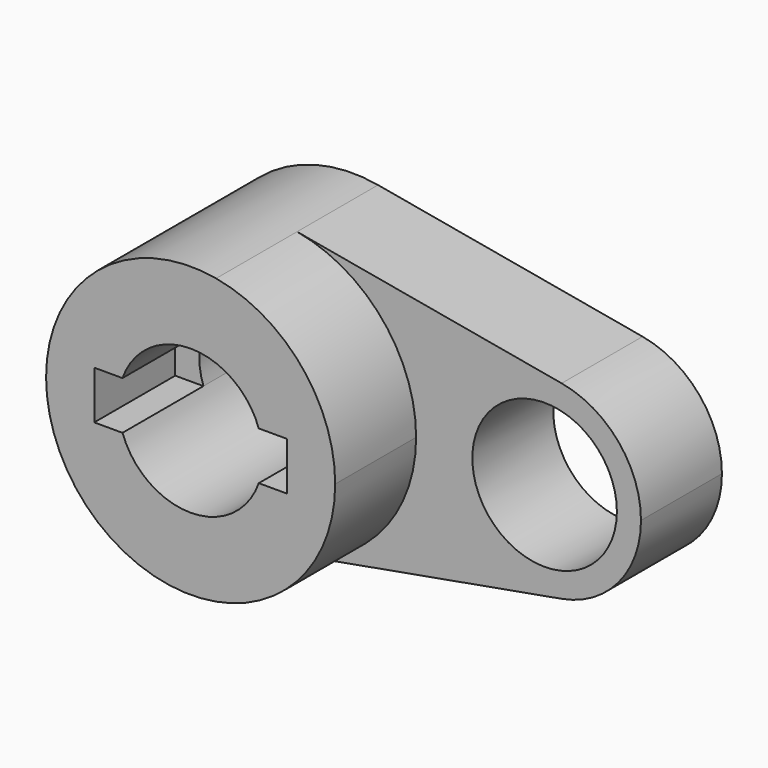
from build123d import *

# Parameters (mm, degrees)
F0_R     = 14.2875
F1_DEPTH = 20
F2_DEPTH = 40


with BuildPart() as f1:
    # F0 (on Front) → F1 (new body)
    with BuildSketch(Plane.XZ):
        with BuildLine():
            ThreePointArc((5.042647, 28.126541), (21.916025, 18.336262), (28.575, 0))
            ThreePointArc((28.575, 0), (21.916025, -18.336262), (5.042647, -28.126541))
            Line((5.042647, -28.126541), (57.336765, -18.751028))
            ThreePointArc((57.336765, -18.751028), (34.925, 0), (57.336765, 18.751028))
            Line((57.336765, 18.751028), (5.042647, 28.126541))
        make_face()
        with BuildLine():
            ThreePointArc((73.025, 0), (68.585683, 12.224174), (57.336765, 18.751028))
            ThreePointArc((57.336765, 18.751028), (34.925, 0), (57.336765, -18.751028))
            ThreePointArc((57.336765, -18.751028), (68.585683, -12.224174), (73.025, 0))
        make_face()
        with Locations((53.975, 0)):
            Circle(F0_R, mode=Mode.SUBTRACT)
        with BuildLine():
            ThreePointArc((5.042647, -28.126541), (21.916025, -18.336262), (28.575, 0))
            ThreePointArc((28.575, 0), (21.916025, 18.336262), (5.042647, 28.126541))
            ThreePointArc((5.042647, 28.126541), (-28.575, 0), (5.042647, -28.126541))
        make_face()
        with BuildLine():
            ThreePointArc((-13.470384, 4.7625), (0, 14.2875), (13.470384, 4.7625))
            Line((13.470384, 4.7625), (19.05, 4.7625))
            Line((19.05, 4.7625), (19.05, -4.7625))
            Line((19.05, -4.7625), (13.470384, -4.7625))
            ThreePointArc((13.470384, -4.7625), (0, -14.2875), (-13.470384, -4.7625))
            Line((-13.470384, -4.7625), (-19.05, -4.7625))
            Line((-19.05, -4.7625), (-19.05, 4.7625))
            Line((-19.05, 4.7625), (-13.470384, 4.7625))
        make_face(mode=Mode.SUBTRACT)
        with BuildLine():
            ThreePointArc((-13.470384, -4.7625), (-14.2875, 0), (-13.470384, 4.7625))
            Line((-13.470384, 4.7625), (-19.05, 4.7625))
            Line((-19.05, 4.7625), (-19.05, -4.7625))
            Line((-19.05, -4.7625), (-13.470384, -4.7625))
        make_face()
    extrude(amount=F1_DEPTH)

    # F0 (on Front) → F2 (join)
    with BuildSketch(Plane.XZ):
        with BuildLine():
            ThreePointArc((5.042647, -28.126541), (21.916025, -18.336262), (28.575, 0))
            ThreePointArc((28.575, 0), (21.916025, 18.336262), (5.042647, 28.126541))
            ThreePointArc((5.042647, 28.126541), (-28.575, 0), (5.042647, -28.126541))
        make_face()
        with BuildLine():
            ThreePointArc((-13.470384, 4.7625), (0, 14.2875), (13.470384, 4.7625))
            Line((13.470384, 4.7625), (19.05, 4.7625))
            Line((19.05, 4.7625), (19.05, -4.7625))
            Line((19.05, -4.7625), (13.470384, -4.7625))
            ThreePointArc((13.470384, -4.7625), (0, -14.2875), (-13.470384, -4.7625))
            Line((-13.470384, -4.7625), (-19.05, -4.7625))
            Line((-19.05, -4.7625), (-19.05, 4.7625))
            Line((-19.05, 4.7625), (-13.470384, 4.7625))
        make_face(mode=Mode.SUBTRACT)
    extrude(amount=F2_DEPTH)


solid = f1.part
